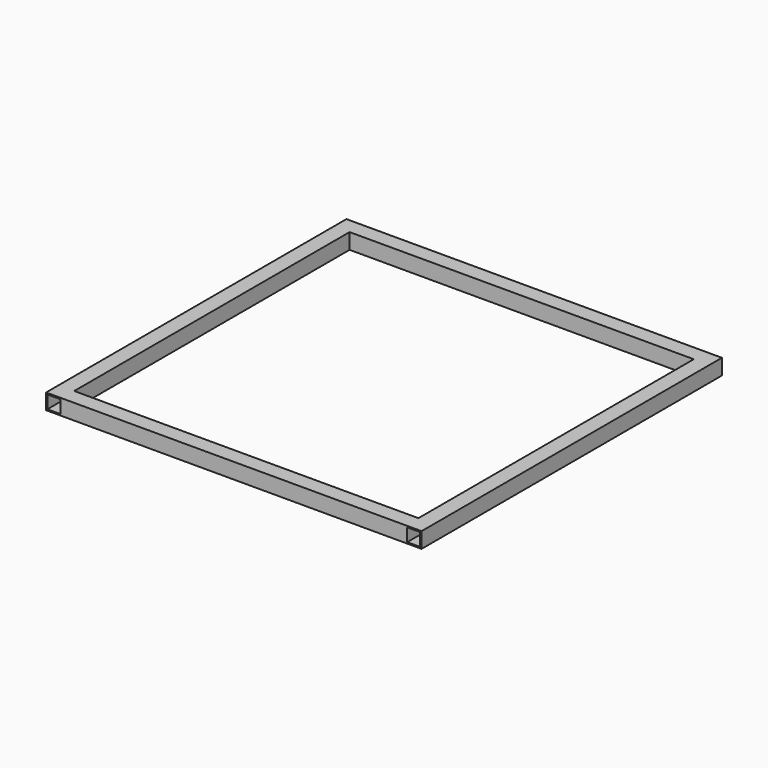
from build123d import *

# Parameters (mm, degrees)
F0_W     = 38.1
F0_H     = 38.1
F0_W_2   = 31.75
F0_H_2   = 31.75
F1_DEPTH = 914.4
F2_W     = 38.1
F2_H     = 38.1
F2_W_2   = 31.75
F2_H_2   = 31.75
F3_DEPTH = 838.2


with BuildPart() as f1:
    # F0 (on Front) → F1 (new body)
    with BuildSketch(Plane.XZ):
        with Locations((19.05, 19.05)):
            Rectangle(F0_W, F0_H)
        with Locations((19.05, 19.05)):
            Rectangle(F0_W_2, F0_H_2, mode=Mode.SUBTRACT)
        with Locations((895.35, 19.05)):
            Rectangle(F0_W, F0_H)
        with Locations((895.35, 19.05)):
            Rectangle(F0_W_2, F0_H_2, mode=Mode.SUBTRACT)
    extrude(amount=F1_DEPTH)

    # F2 (on face) → F3 (join)
    with BuildSketch(Plane.YZ.offset(38.1)):
        with Locations((-895.35, 19.05)):
            Rectangle(F2_W, F2_H)
        with Locations((-895.35, 19.05)):
            Rectangle(F2_W_2, F2_H_2, mode=Mode.SUBTRACT)
        with Locations((-19.05, 19.05)):
            Rectangle(F2_W, F2_H)
        with Locations((-19.05, 19.05)):
            Rectangle(F2_W_2, F2_H_2, mode=Mode.SUBTRACT)
    extrude(amount=F3_DEPTH)


solid = f1.part
